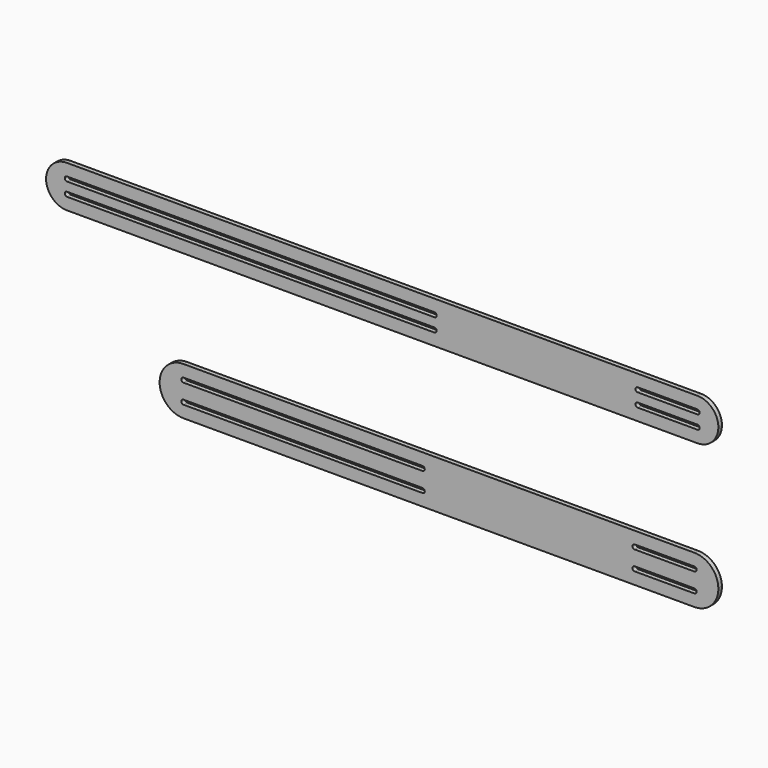
from build123d import *

# Parameters (mm, degrees)
F1_DEPTH = 1.5


with BuildPart() as f1:
    # F0 (on Front) → F1 (new body)
    with BuildSketch(Plane.XZ):
        with BuildLine():
            Line((74.774085, 21.389616), (-136.225915, 21.389616))
            ThreePointArc((-136.225915, 21.389616), (-141.21106, 19.303711), (-143.225194, 14.289138))
            ThreePointArc((-143.225194, 14.289138), (-141.14001, 9.404471), (-136.225915, 7.389616))
            Line((-136.225915, 7.389616), (74.774085, 7.389616))
            ThreePointArc((74.774085, 7.389616), (79.654478, 9.371473), (81.771374, 14.194828))
            ThreePointArc((81.771374, 14.194828), (79.792228, 19.27001), (74.774085, 21.389616))
        make_face()
        with BuildLine():
            Line((-13.225915, 11.389616), (-136.225915, 11.389616))
            ThreePointArc((-136.225915, 11.389616), (-136.975915, 12.139616), (-136.225915, 12.889616))
            Line((-136.225915, 12.889616), (-13.225915, 12.889616))
            ThreePointArc((-13.225915, 12.889616), (-12.475915, 12.139616), (-13.225915, 11.389616))
        make_face(mode=Mode.SUBTRACT)
        with BuildLine():
            Line((-13.225915, 15.889616), (-136.225915, 15.889616))
            ThreePointArc((-136.225915, 15.889616), (-136.975915, 16.639616), (-136.225915, 17.389616))
            Line((-136.225915, 17.389616), (-13.225915, 17.389616))
            ThreePointArc((-13.225915, 17.389616), (-12.475915, 16.639616), (-13.225915, 15.889616))
        make_face(mode=Mode.SUBTRACT)
        with BuildLine():
            Line((54.774085, 12.889616), (74.774085, 12.889616))
            ThreePointArc((74.774085, 12.889616), (75.524085, 12.139616), (74.774085, 11.389616))
            Line((74.774085, 11.389616), (54.774085, 11.389616))
            ThreePointArc((54.774085, 11.389616), (54.024085, 12.139616), (54.774085, 12.889616))
        make_face(mode=Mode.SUBTRACT)
        with BuildLine():
            Line((54.774085, 17.389616), (74.774085, 17.389616))
            ThreePointArc((74.774085, 17.389616), (75.524085, 16.639616), (74.774085, 15.889616))
            Line((74.774085, 15.889616), (54.774085, 15.889616))
            ThreePointArc((54.774085, 15.889616), (54.024085, 16.639616), (54.774085, 17.389616))
        make_face(mode=Mode.SUBTRACT)
        with BuildLine():
            ThreePointArc((-105.225738, -33.137631), (-102.901542, -38.828835), (-97.225915, -41.190816))
            Line((-97.225915, -41.190816), (73.774085, -41.190816))
            ThreePointArc((73.774085, -41.190816), (79.519637, -38.757559), (81.770088, -32.937975))
            ThreePointArc((81.770088, -32.937975), (79.340829, -27.445264), (73.774085, -25.190816))
            Line((73.774085, -25.190816), (-97.225915, -25.190816))
            ThreePointArc((-97.225915, -25.190816), (-102.863934, -27.515189), (-105.225738, -33.137631))
        make_face()
        with BuildLine():
            Line((-17.225915, -37.190816), (-97.225915, -37.190816))
            ThreePointArc((-97.225915, -37.190816), (-97.975915, -36.440816), (-97.225915, -35.690816))
            Line((-97.225915, -35.690816), (-17.225915, -35.690816))
            ThreePointArc((-17.225915, -35.690816), (-16.475915, -36.440816), (-17.225915, -37.190816))
        make_face(mode=Mode.SUBTRACT)
        with BuildLine():
            Line((-17.225915, -30.690816), (-97.225915, -30.690816))
            ThreePointArc((-97.225915, -30.690816), (-97.975915, -29.940816), (-97.225915, -29.190816))
            Line((-97.225915, -29.190816), (-17.225915, -29.190816))
            ThreePointArc((-17.225915, -29.190816), (-16.475915, -29.940816), (-17.225915, -30.690816))
        make_face(mode=Mode.SUBTRACT)
        with BuildLine():
            Line((53.774085, -35.690816), (73.774085, -35.690816))
            ThreePointArc((73.774085, -35.690816), (74.524085, -36.440816), (73.774085, -37.190816))
            Line((73.774085, -37.190816), (53.774085, -37.190816))
            ThreePointArc((53.774085, -37.190816), (53.024085, -36.440816), (53.774085, -35.690816))
        make_face(mode=Mode.SUBTRACT)
        with BuildLine():
            Line((53.774085, -29.235169), (73.774085, -29.235169))
            ThreePointArc((73.774085, -29.235169), (74.524085, -29.985169), (73.774085, -30.735169))
            Line((73.774085, -30.735169), (53.774085, -30.735169))
            ThreePointArc((53.774085, -30.735169), (53.024085, -29.985169), (53.774085, -29.235169))
        make_face(mode=Mode.SUBTRACT)
    extrude(amount=F1_DEPTH)


solid = f1.part
